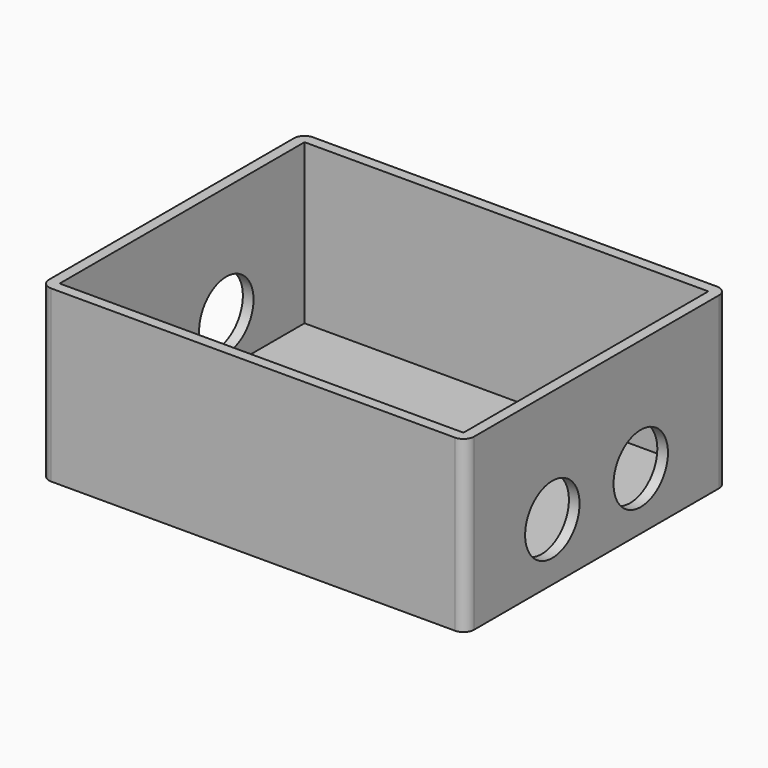
from build123d import *

# Parameters (mm, degrees)
F1_DEPTH = 80
F2_W     = 189.999994
F2_H     = 143.999994
F3_DEPTH = 75
F4_R     = 16
F5_DEPTH = 200.001


with BuildPart() as f1:
    # F0 (on Top) → F1 (new body)
    with BuildSketch(Plane.XY):
        with BuildLine():
            ThreePointArc((100, 72), (98.535534, 75.535534), (95, 77))
            Line((95, 77), (-95, 77))
            ThreePointArc((-95, 77), (-98.535534, 75.535534), (-100, 72))
            Line((-100, 72), (-100, -72))
            ThreePointArc((-100, -72), (-98.535534, -75.535534), (-95, -77))
            Line((-95, -77), (95, -77))
            ThreePointArc((95, -77), (98.535534, -75.535534), (100, -72))
            Line((100, -72), (100, 72))
        make_face()
    extrude(amount=F1_DEPTH)

    # F2 (on face) → F3 (cut)
    with BuildSketch(Plane.XY.offset(80)):
        Rectangle(F2_W, F2_H)
    extrude(amount=-F3_DEPTH, mode=Mode.SUBTRACT)

    # F4 (on face) → F5 (cut, through all)
    with BuildSketch(Plane.YZ.offset(100)):
        with Locations((26, 27)):
            Circle(F4_R)
        with Locations((-26, 27)):
            Circle(F4_R)
    extrude(amount=-F5_DEPTH, mode=Mode.SUBTRACT)


solid = f1.part
